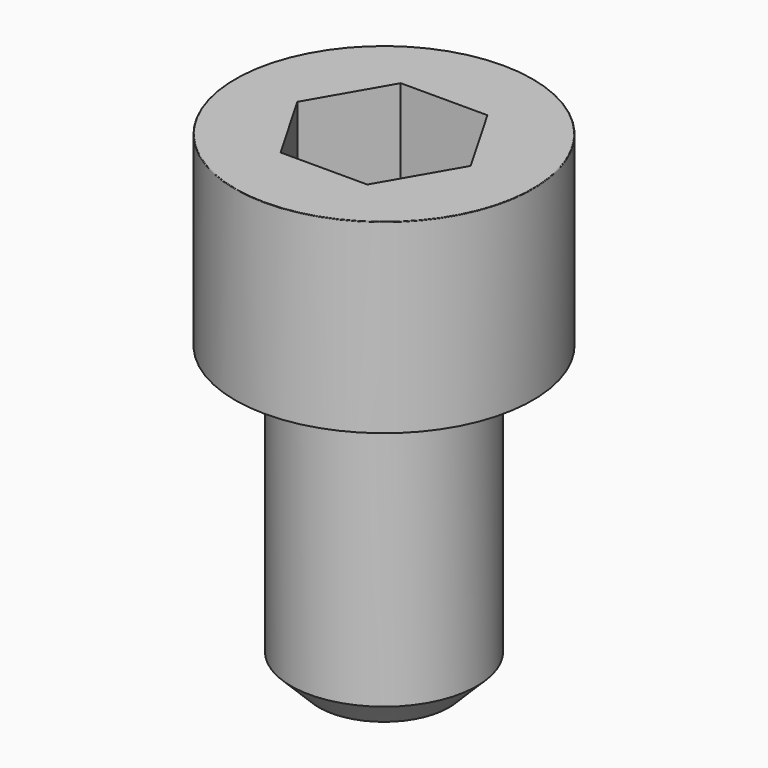
from build123d import *

# Parameters (mm, degrees)
POCKET_DEPTH = 8.07


with BuildPart() as part:
    # Sketch → Revolve (revolve)
    with BuildSketch(Plane.YZ):
        with BuildLine():
            Line((4.999, 0), (8, 0))
            Line((8, 0), (8, 9.97229))
            ThreePointArc((8, 9.97229), (7.991884, 9.991884), (7.97229, 10))
            Line((7.97229, 10), (0, 10))
            Line((0, -16), (0, 10))
            Line((3.5, -16), (0, -16))
            Line((5, -14.5), (3.5, -16))
            Line((5, -0.2), (5, -14.5))
            Line((4.999, 0), (5, -0.2))
        make_face()
    revolve(axis=Axis((0, 0, 0), (0, 0, 1)))

    # Sketch001 → Pocket (cut)
    with BuildSketch(Plane.XY.offset(10)):
        Polygon((4.659217, 0), (2.329608, 4.035), (-2.329608, 4.035), (-4.659217, 0), (-2.329608, -4.035), (2.329608, -4.035), align=None)
    extrude(amount=-POCKET_DEPTH, mode=Mode.SUBTRACT)


solid = part.part
